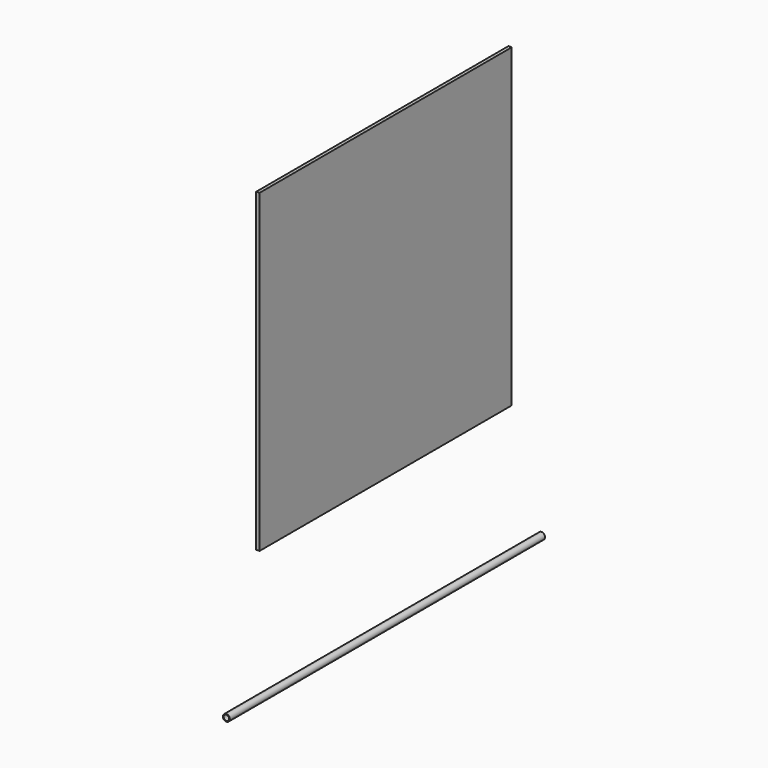
from build123d import *

# Parameters (mm, degrees)
F0_R     = 13.335
F0_R_2   = 10.4648
F1_DEPTH = 762
F2_W     = 1219.2
F2_H     = 1219.2
F3_DEPTH = 6.35


with BuildPart() as f1:
    # F0 (on Front) → F1 (new body, symmetric)
    with BuildSketch(Plane.XZ):
        Circle(F0_R)
        Circle(F0_R_2, mode=Mode.SUBTRACT)
    extrude(amount=F1_DEPTH, both=True)


with BuildPart() as f3:
    # F2 (on Right) → F3 (new body, symmetric)
    with BuildSketch(Plane.YZ):
        with Locations((0, 1117.6)):
            Rectangle(F2_W, F2_H)
    extrude(amount=F3_DEPTH, both=True)


solid = Compound([f1.part, f3.part])
